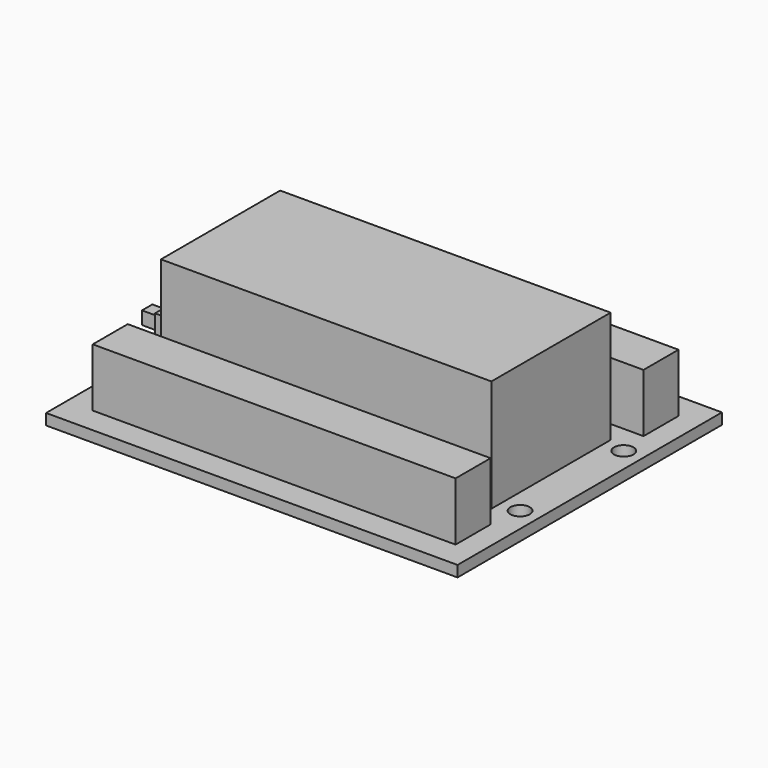
from build123d import *

# Parameters (mm, degrees)
F4_W      = 63.5
F4_H      = 51
F4_R      = 1.5
F5_DEPTH  = 1.7
F6_W      = 51
F6_H      = 23
F7_DEPTH  = 17.3
F6_W_2    = 56
F6_H_2    = 6.75
F8_DEPTH  = 9
F6_W_3    = 4.45
F6_H_3    = 9
F9_DEPTH  = 5
F10_W     = 2
F10_H     = 2
F11_DEPTH = 4


with BuildPart() as f5:
    # F4 (on Top) → F5 (new body)
    with BuildSketch(Plane.XY):
        with Locations((22.1723487377, -2.2746226639)):
            Rectangle(F4_W, F4_H)
        with Locations((-7.0376512623, -12.0146226639)):
            Circle(F4_R, mode=Mode.SUBTRACT)
        with Locations((50.9623487377, -12.0146226639)):
            Circle(F4_R, mode=Mode.SUBTRACT)
        with Locations((-7.0376512623, 7.9853773361)):
            Circle(F4_R, mode=Mode.SUBTRACT)
        with Locations((50.9623487377, 7.9853773361)):
            Circle(F4_R, mode=Mode.SUBTRACT)
    extrude(amount=F5_DEPTH)

    # F6 (on face) → F7 (join)
    with BuildSketch(Plane.XY.offset(1.7)):
        with Locations((22.4463341404, -2.2746226639)):
            Rectangle(F6_W, F6_H)
    extrude(amount=F7_DEPTH)

    # F6 (on face) → F8 (join)
    with BuildSketch(Plane.XY.offset(1.7)):
        with Locations((22.4223487377, 15.8503773361)):
            Rectangle(F6_W_2, F6_H_2)
        with Locations((22.4223487377, -20.3996226639)):
            Rectangle(F6_W_2, F6_H_2)
    extrude(amount=F8_DEPTH)

    # F6 (on face) → F9 (join)
    with BuildSketch(Plane.XY.offset(1.7)):
        with Locations((-7.3526512623, -2.2746226639)):
            Rectangle(F6_W_3, F6_H_3)
    extrude(amount=F9_DEPTH)

    # F10 (on face) → F11 (join)
    with BuildSketch(Plane(origin=(-9.5776512623, 0, 0), x_dir=(0, -1, 0), z_dir=(-1, 0, 0))):
        with Locations((3.2746226639, 3.7837546077)):
            Rectangle(F10_W, F10_H)
    extrude(amount=F11_DEPTH)


solid = f5.part
